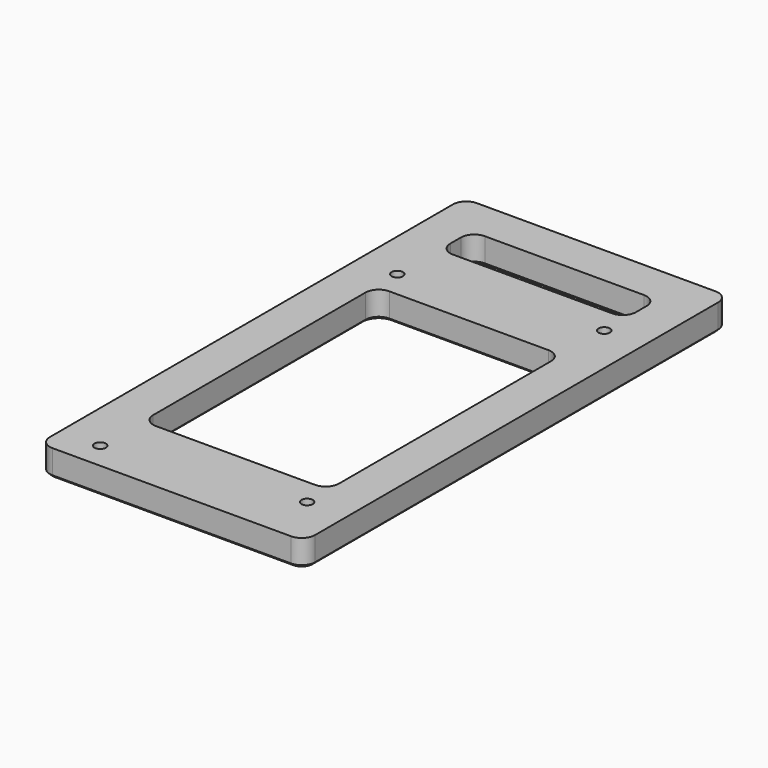
from build123d import *

# Parameters (mm, degrees)
F0_W     = 100
F0_H     = 200
F0_R     = 5.1
F0_W_2   = 70
F0_H_2   = 110
F0_H_3   = 15
F0_R_2   = 2.15
F1_DEPTH = 10
F2_R     = 5
F3_SIZE  = 1
F4_DEPTH = 5


with BuildPart() as f1:
    # F0 (on Top) → F1 (new body)
    with BuildSketch(Plane.XY):
        Rectangle(F0_W, F0_H)
        with Locations((-35, -90)):
            Circle(F0_R, mode=Mode.SUBTRACT)
        with Locations((35, -80)):
            Circle(F0_R, mode=Mode.SUBTRACT)
        with Locations((0, -15)):
            Rectangle(F0_W_2, F0_H_2, mode=Mode.SUBTRACT)
        with Locations((-35, 50)):
            Circle(F0_R, mode=Mode.SUBTRACT)
        with Locations((0, 77.5)):
            Rectangle(F0_W_2, F0_H_3, mode=Mode.SUBTRACT)
        with Locations((35, 60)):
            Circle(F0_R, mode=Mode.SUBTRACT)
        with Locations((35, -80)):
            Circle(F0_R)
        with Locations((35, -80)):
            Circle(F0_R_2, mode=Mode.SUBTRACT)
        with Locations((-35, -90)):
            Circle(F0_R)
        with Locations((-35, -90)):
            Circle(F0_R_2, mode=Mode.SUBTRACT)
        with Locations((-35, 50)):
            Circle(F0_R)
        with Locations((-35, 50)):
            Circle(F0_R_2, mode=Mode.SUBTRACT)
        with Locations((35, 60)):
            Circle(F0_R)
        with Locations((35, 60)):
            Circle(F0_R_2, mode=Mode.SUBTRACT)
    extrude(amount=F1_DEPTH)

    # F2
    f2_edges = [f1.edges().sort_by_distance(p)[0] for p in [
        (-50, -100, 5),
        (50, -100, 5),
        (35, -70, 5),
        (-35, -70, 5),
        (35, 40, 5),
        (-35, 40, 5),
        (-50, 100, 5),
        (50, 100, 5),
        (35, 70, 5),
        (35, 85, 5),
        (-35, 70, 5),
        (-35, 85, 5),
    ]]
    fillet(f2_edges, radius=F2_R)

    # F3
    f3_edges = [f1.edges().sort_by_distance(p)[0] for p in [
        (50, 0, 0),
        (48.535534, -98.535534, 0),
        (48.535534, 98.535534, 0),
        (0, -100, 0),
        (0, 100, 0),
        (-48.535534, -98.535534, 0),
        (-48.535534, 98.535534, 0),
        (-50, 0, 0),
        (32.85, -80, 0),
        (-37.15, -90, 0),
        (-37.15, 50, 0),
        (32.85, 60, 0),
        (0, -70, 0),
        (33.535534, -68.535534, 0),
        (-33.535534, -68.535534, 0),
        (35, -15, 0),
        (-35, -15, 0),
        (33.535534, 38.535534, 0),
        (-33.535534, 38.535534, 0),
        (0, 40, 0),
        (-35, 77.5, 0),
        (-33.535534, 71.464466, 0),
        (-33.535534, 83.535534, 0),
        (0, 70, 0),
        (0, 85, 0),
        (33.535534, 71.464466, 0),
        (33.535534, 83.535534, 0),
        (35, 77.5, 0),
    ]]
    chamfer(f3_edges, length=F3_SIZE)

    # F0 (on Top) → F4 (cut)
    with BuildSketch(Plane.XY):
        with Locations((-35, 50)):
            Circle(F0_R)
        with Locations((-35, 50)):
            Circle(F0_R_2, mode=Mode.SUBTRACT)
        with Locations((35, 60)):
            Circle(F0_R)
        with Locations((35, 60)):
            Circle(F0_R_2, mode=Mode.SUBTRACT)
        with Locations((35, -80)):
            Circle(F0_R)
        with Locations((35, -80)):
            Circle(F0_R_2, mode=Mode.SUBTRACT)
        with Locations((-35, -90)):
            Circle(F0_R)
        with Locations((-35, -90)):
            Circle(F0_R_2, mode=Mode.SUBTRACT)
    extrude(amount=F4_DEPTH, mode=Mode.SUBTRACT)


solid = f1.part
